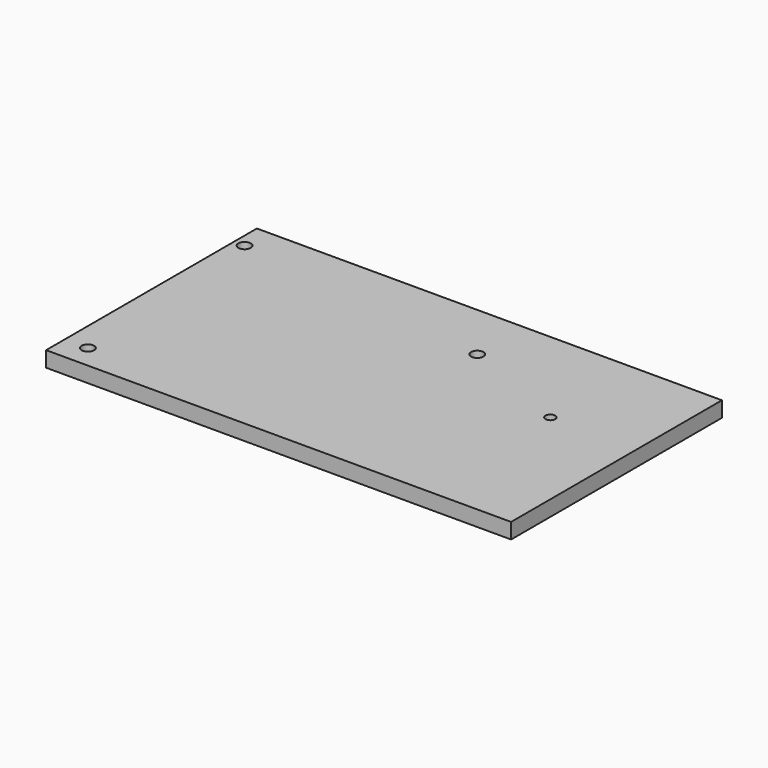
from build123d import *

# Parameters (mm, degrees)
F0_W     = 300
F0_H     = 170
F0_R     = 4
F1_DEPTH = 10
F3_D     = 6.3


with BuildPart() as f1:
    # F0 (on Top) → F1 (new body)
    with BuildSketch(Plane.XY):
        with Locations((-150, -85)):
            Rectangle(F0_W, F0_H)
        with Locations((-285, -155)):
            Circle(F0_R, mode=Mode.SUBTRACT)
        with Locations((-293.1499779224, -18.4999983758)):
            Circle(F0_R, mode=Mode.SUBTRACT)
        with Locations((-127.52, -37.86)):
            Circle(F0_R, mode=Mode.SUBTRACT)
    extrude(amount=F1_DEPTH)

    # F3 (through all)
    with Locations(Plane(origin=(0, 0, 0), x_dir=(1, 0, 0), z_dir=(0, 0, -1))):
        with Locations((-55.8166801929, 68.5865059495)):
            Hole(F3_D / 2)


solid = f1.part
